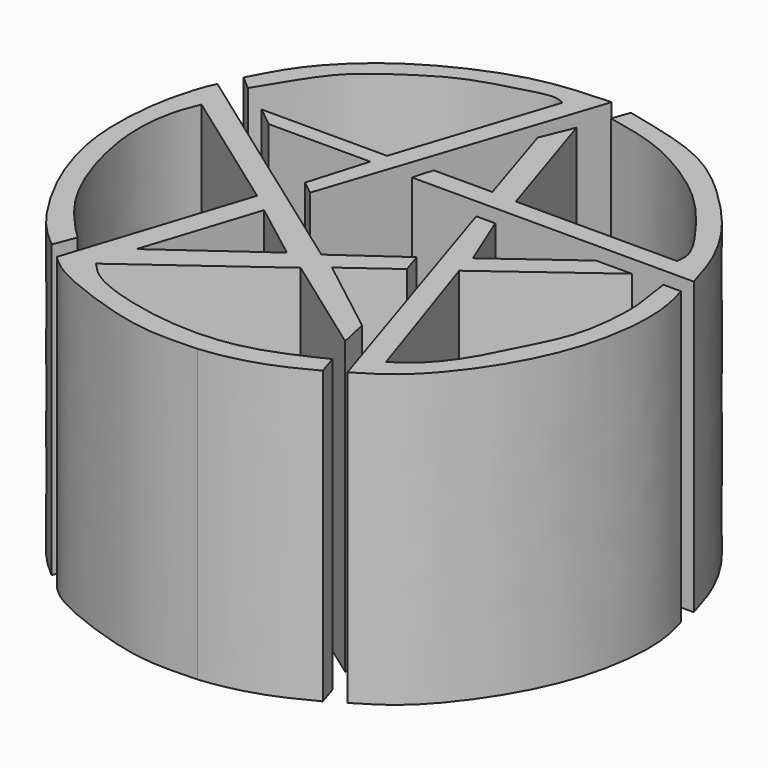
from build123d import *

# Parameters (mm, degrees)
F1_DEPTH = 25


with BuildPart() as f1:
    # F0 (on Top) → F1 (new body)
    with BuildSketch(Plane.XY):
        with BuildLine():
            Line((44.812258333, 53.6919422448), (34.0407192707, 53.6919422448))
            Line((34.0407192707, 53.6919422448), (35.7321165502, 52.3269511759))
            Line((35.7321165502, 52.3269511759), (44.4561727345, 52.3269511759))
            Line((44.4561727345, 52.3269511759), (42.9428182542, 47.2230836749))
            Line((42.9428182542, 47.2230836749), (44.1105565273, 46.2806957848))
            Line((44.1105565273, 46.2806957848), (51.6965389252, 69.1815912724))
            add(Edge.make_bspline(
                [(51.6965389252, 69.1815912724), (50.4524167957, 69.1326907756), (47.9916665589, 69.0359704409), (44.5043196657, 68.3534366475), (40.9343896774, 66.9433489012), (37.6690042438, 65.1660846742), (34.7794950211, 63.0230780666), (31.9254353452, 59.9570685381), (30.7591780724, 57.6817069711), (30.1883090287, 56.5679445863)],
                knots=[0, 0, 0, 0, 0.141829807, 0.280525298, 0.4246980025, 0.5664568968, 0.7063255794, 0.8562498691, 1, 1, 1, 1], degree=3))
            add(Edge.make_bspline(
                [(30.1883090287, 56.5679445863), (30.5792316794, 56.2269277871), (30.9701543301, 55.8859109879), (31.3610769808, 55.5448941886)],
                knots=[0, 0, 0, 0, 1.556283003, 1.556283003, 1.556283003, 1.556283003], degree=3))
            add(Edge.make_bspline(
                [(31.3610769808, 55.5448941886), (31.8123828744, 56.2881030808), (32.7685179804, 57.8626628703), (34.6352677549, 60.7932269306), (36.7464478269, 62.5500640142), (39.630096623, 64.5288575104), (42.2205175361, 65.9076551519), (45.6950339888, 66.8367151988), (48.1933683323, 67.5313041772), (48.9026289807, 67.2011968442), (49.1742864251, 67.0747607946)],
                knots=[0, 0, 0, 0, 0.1248096143, 0.2644212175, 0.3908159069, 0.5305584177, 0.6613881458, 0.806480541, 0.9258791506, 1, 1, 1, 1], degree=3))
            Line((49.1742864251, 67.0747607946), (44.812258333, 53.6919422448))
        make_face()
    extrude(amount=F1_DEPTH)


with BuildPart() as f1b:
    # F0 (on Top) → F1, piece 2 (new body)
    with BuildSketch(Plane.XY):
        with BuildLine():
            add(Edge.make_bspline(
                [(53.1362332404, 67.3081129789), (53.805422693, 67.1736089456), (55.3470800415, 66.8637428372), (58.8942423551, 65.8566676892), (63.2610501005, 63.122957783), (65.9726265765, 60.4977915099), (68.1664452008, 57.6343306219), (69.7199103296, 55.2121023161), (69.5799109872, 54.2748790238), (69.5241987705, 53.9019145072)],
                knots=[0, 0, 0, 0, 0.1198400828, 0.2760837661, 0.4610761717, 0.6202053237, 0.7761973745, 0.9109385792, 1, 1, 1, 1], degree=3))
            Line((69.5241987705, 53.9019145072), (55.6991249323, 53.9019145072))
            Line((55.6991249323, 53.9019145072), (52.174076438, 64.824745059))
            Line((52.174076438, 64.824745059), (51.0410219431, 62.0550625026))
            Line((51.0410219431, 62.0550625026), (53.6008812487, 53.9978034794))
            Line((53.6008812487, 53.9978034794), (48.5650934279, 53.9978034794))
            Line((48.5650934279, 53.9978034794), (48.0615161359, 52.2772409022))
            Line((48.0615161359, 52.2772409022), (72.2752586007, 52.2772409022))
            add(Edge.make_bspline(
                [(72.2752586007, 52.2772409022), (71.9727730122, 53.323374444), (71.328464913, 55.5472415212), (69.2366943604, 59.3717587308), (65.6303200693, 63.3062582454), (61.3428911528, 66.8988200534), (55.990384948, 68.2225911218), (54.3947660828, 68.6442913779), (53.6655560136, 68.7902122736)],
                knots=[0, 0, 0, 0, 0.1469949421, 0.3135672082, 0.4993787693, 0.6915439213, 0.8770971154, 1, 1, 1, 1], degree=3))
            add(Edge.make_bspline(
                [(53.6655560136, 68.7902122736), (53.4891150892, 68.2961791754), (53.3126741648, 67.8021460772), (53.1362332404, 67.3081129789)],
                knots=[0, 0, 0, 0, 1.5737855373, 1.5737855373, 1.5737855373, 1.5737855373], degree=3))
        make_face()
    extrude(amount=F1_DEPTH)


with BuildPart() as f1c:
    # F0 (on Top) → F1, piece 3 (new body)
    with BuildSketch(Plane.XY):
        with BuildLine():
            add(Edge.make_bspline(
                [(70.970416069, 50.6441369653), (71.0542201125, 50.0577893936), (71.2304266253, 48.8249340725), (71.6167848414, 46.7213634913), (71.2507489047, 41.6253196409), (69.3062637751, 37.9653684349), (67.2820029718, 33.6878776048), (64.9871707696, 31.2099657821), (63.9032899491, 30.5614621616), (63.4505078197, 30.2905552089)],
                knots=[0, 0, 0, 0, 0.1072299161, 0.2254617892, 0.404644868, 0.5724728673, 0.7481628192, 0.8947971282, 1, 1, 1, 1], degree=3))
            Line((63.4505078197, 30.2905552089), (59.0029843152, 43.6811223626))
            Line((59.0029843152, 43.6811223626), (68.3205127716, 50.5654104054))
            Line((68.3205127716, 50.5654104054), (65.2641281486, 50.5654104054))
            Line((65.2641281486, 50.5654104054), (58.5875548422, 45.6692576408))
            Line((58.5875548422, 45.6692576408), (56.599419564, 50.5654104054))
            Line((56.599419564, 50.5654104054), (54.9673698843, 50.5654104054))
            Line((54.9673698843, 50.5654104054), (62.3701885343, 27.4814460427))
            add(Edge.make_bspline(
                [(62.3701885343, 27.4814460427), (63.3883263261, 28.0838934031), (65.6822055578, 29.4412160555), (69.5182476955, 34.0156317376), (72.6921126886, 40.2964372928), (73.4832386185, 47.1184374266), (72.7833526751, 49.6012378795), (72.4893659353, 50.6441369653)],
                knots=[0, 0, 0, 0, 0.1677436685, 0.3779289212, 0.6121406827, 0.8370798882, 1, 1, 1, 1], degree=3))
            add(Edge.make_bspline(
                [(72.4893659353, 50.6441369653), (71.9830493132, 50.6441369653), (71.4767326911, 50.6441369653), (70.970416069, 50.6441369653)],
                knots=[0, 0, 0, 0, 1.5189498663, 1.5189498663, 1.5189498663, 1.5189498663], degree=3))
        make_face()
    extrude(amount=F1_DEPTH)


with BuildPart() as f1d:
    # F0 (on Top) → F1, piece 4 (new body)
    with BuildSketch(Plane.XY):
        with BuildLine():
            Line((50.3295138478, 39.7354476154), (29.4036548585, 54.7329001129))
            add(Edge.make_bspline(
                [(35.2768823504, 29.5825470239), (34.5953557089, 30.1689778429), (33.0348159571, 31.511769964), (30.4122885629, 35.6018590943), (28.6670664269, 39.6180448915), (27.648116989, 43.861493984), (27.7258271406, 48.1650546958), (28.1634910451, 51.1466606702), (28.9492012566, 53.8240337642), (29.2800994394, 54.4858003823), (29.4036548585, 54.7329001129)],
                knots=[0, 0, 0, 0, 0.1168543702, 0.267569716, 0.4129259268, 0.5563547188, 0.6980470506, 0.8199667924, 0.932776668, 1, 1, 1, 1], degree=3))
            add(Edge.make_bspline(
                [(36.0148325562, 31.4668603241), (35.8170072238, 30.9129512558), (35.4747076829, 30.1364560922), (35.2768823504, 29.5825470239)],
                knots=[0, 0, 0, 0, 2.0236618096, 2.0236618096, 2.0236618096, 2.0236618096], degree=3))
            add(Edge.make_bspline(
                [(30.4361861199, 51.7339669168), (30.1805966062, 51.1208028326), (29.5919977728, 49.7087430838), (29.0928348623, 46.0359488105), (29.9037246045, 41.1334314692), (31.9826316615, 35.8428822775), (34.9335767022, 32.5068932295), (35.7275815007, 31.7431599148), (36.0148325562, 31.4668603241)],
                knots=[0, 0, 0, 0, 0.1290543899, 0.2972002341, 0.4960780388, 0.7111289915, 0.895493702, 1, 1, 1, 1], degree=3))
            Line((30.4361861199, 51.7339669168), (41.6227099965, 43.7136054443))
            Line((41.6227099965, 43.7136054443), (36.6795249283, 28.3897165209))
            add(Edge.make_bspline(
                [(52.3743927479, 23.8575097173), (51.0614679962, 23.807842649), (48.3526931094, 23.7053715002), (44.236812335, 24.5618832512), (38.3426499213, 26.7899094326), (37.1308751204, 27.9555499732), (36.6795249283, 28.3897165209)],
                knots=[0, 0, 0, 0, 0.2456456361, 0.5068064482, 0.8163000219, 1, 1, 1, 1], degree=3))
            add(Edge.make_bspline(
                [(60.935229063, 26.6271922737), (59.6440624425, 25.9359839252), (56.997695994, 24.6385937328), (53.9674161578, 24.0139735878), (52.3743927479, 23.8575097173)],
                knots=[0, 0, 0, 0, 0.4917427521, 1, 1, 1, 1], degree=3))
            add(Edge.make_bspline(
                [(60.3896863759, 28.3477529883), (60.5715339382, 27.7742327501), (60.7533815006, 27.2007125119), (60.935229063, 26.6271922737)],
                knots=[0, 0, 0, 0, 1.8049781151, 1.8049781151, 1.8049781151, 1.8049781151], degree=3))
            add(Edge.make_bspline(
                [(39.3422837332, 29.268374226), (39.8027171176, 28.7533059602), (41.0254368569, 27.3854986791), (47.3124949282, 25.5440707407), (54.385446473, 25.4835376413), (58.4203731205, 27.4083272924), (60.3896863759, 28.3477529883)],
                knots=[0, 0, 0, 0, 0.1638784122, 0.4351929644, 0.724336505, 1, 1, 1, 1], degree=3))
            Line((39.3422837332, 29.268374226), (50.4353754222, 37.371147424))
            Line((50.4353754222, 37.371147424), (59.4338476658, 30.9134200215))
            Line((59.4338476658, 30.9134200215), (58.8692389429, 33.4188751876))
            Line((58.8692389429, 33.4188751876), (52.0586296916, 38.7120917439))
            Line((52.0586296916, 38.7120917439), (56.1167672276, 41.6762940586))
            Line((56.1167672276, 41.6762940586), (55.5521547794, 43.4407033026))
            Line((55.5521547794, 43.4407033026), (50.3295138478, 39.7354476154))
        make_face()
        Polygon((48.349045217, 38.5147407651), (40.1449091733, 32.6186716557), (43.292272836, 42.3755086958), align=None, mode=Mode.SUBTRACT)
    extrude(amount=F1_DEPTH)


solid = Compound([f1.part, f1b.part, f1c.part, f1d.part])
